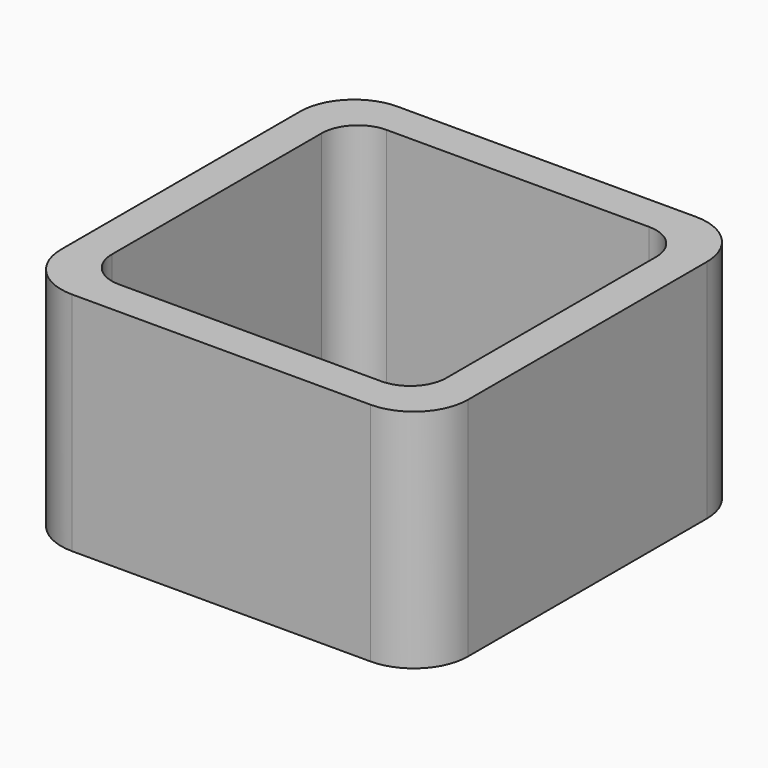
from build123d import *

# Parameters (mm, degrees)
EXTRUDE_DEPTH = 50


with BuildPart() as part:
    # Sketch → Extrude (new body)
    with BuildSketch(Plane.XY):
        with BuildLine():
            Line((-33, 45), (33, 45))
            ThreePointArc((45, 33), (41.485281, 41.485281), (33, 45))
            Line((45, 33), (45, -33))
            ThreePointArc((33, -45), (41.485281, -41.485281), (45, -33))
            Line((33, -45), (-33, -45))
            ThreePointArc((-45, -33), (-41.485281, -41.485281), (-33, -45))
            Line((-45, -33), (-45, 33))
            ThreePointArc((-33, 45), (-41.485281, 41.485281), (-45, 33))
        make_face()
        with BuildLine():
            Line((-29, 37), (29, 37))
            ThreePointArc((37, 29), (34.656854, 34.656854), (29, 37))
            Line((37, 29), (37, -29))
            ThreePointArc((29, -37), (34.656854, -34.656854), (37, -29))
            Line((29, -37), (-29, -37))
            ThreePointArc((-37, -29), (-34.656854, -34.656854), (-29, -37))
            Line((-37, -29), (-37, 29))
            ThreePointArc((-29, 37), (-34.656854, 34.656854), (-37, 29))
        make_face(mode=Mode.SUBTRACT)
    extrude(amount=EXTRUDE_DEPTH)


solid = part.part
